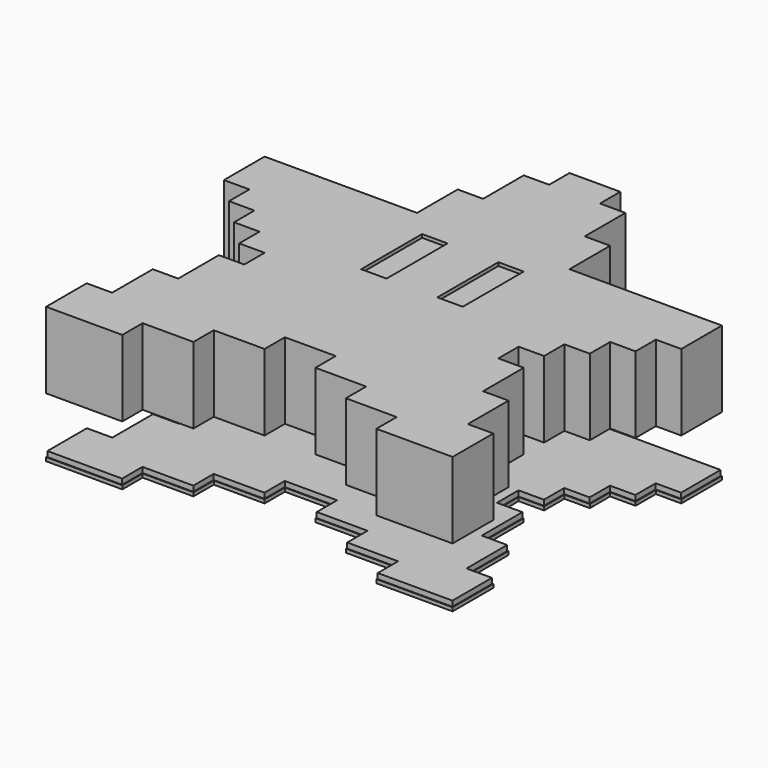
from build123d import *

# Parameters (mm, degrees)
F2_DEPTH  = 25.5
F3_W      = 8.5
F3_H      = 25.5
F4_DEPTH  = 2.55
F6_W      = 8.3
F6_H      = 25.3
F7_DEPTH  = 1.5
F8_SIZE   = 0.7
F8_2_SIZE = 0.7
F11_DEPTH = 3
F12_DEPTH = 1.2


with BuildPart() as f2:
    # F1 (on Top) → F2 (new body)
    with BuildSketch(Plane.XY):
        Polygon((8.5, 85), (0, 85), (-8.5, 85), (-8.5, 76.5), (-17, 76.5), (-17, 59.5), (-25.5, 59.5), (-25.5, 42.5), (-76.5, 42.5), (-76.5, 25.5), (-68, 25.5), (-68, 17), (-59.5, 17), (-59.5, 8.5), (-51, 8.5), (-51, 0), (-42.5, 0), (-42.5, -8.5), (-51, -8.5), (-51, -25.5), (-59.5, -25.5), (-59.5, -42.5), (-68, -42.5), (-68, -59.5), (-42.5, -59.5), (-42.5, -51), (-25.5, -51), (-25.5, -42.5), (-8.5, -42.5), (-8.5, -34), (0, -34), (8.5, -34), (8.5, -42.5), (25.5, -42.5), (25.5, -51), (42.5, -51), (42.5, -59.5), (68, -59.5), (68, -42.5), (59.5, -42.5), (59.5, -25.5), (51, -25.5), (51, -8.5), (42.5, -8.5), (42.5, 0), (51, 0), (51, 8.5), (59.5, 8.5), (59.5, 17), (68, 17), (68, 25.5), (76.5, 25.5), (76.5, 42.5), (25.5, 42.5), (25.5, 59.5), (17, 59.5), (17, 76.5), (8.5, 76.5), align=None)
    extrude(amount=F2_DEPTH)

    # F3 (on face) → F4 (cut)
    with BuildSketch(Plane.XY.offset(25.5)):
        with Locations((-12.75, 21.25)):
            Rectangle(F3_W, F3_H)
        with Locations((12.75, 21.25)):
            Rectangle(F3_W, F3_H)
    extrude(amount=-F4_DEPTH, mode=Mode.SUBTRACT)


with BuildPart() as f7:
    # F6 (on face) → F7 (new body)
    with BuildSketch(Plane.XY.offset(22.95)):
        with Locations((-12.75, 21.25)):
            Rectangle(F6_W, F6_H)
    extrude(amount=F7_DEPTH)

    # F8
    f8_edges = [f7.edges().sort_by_distance(p)[0] for p in [
        (-8.6, 21.25, 22.95),
        (-12.75, 33.9, 22.95),
        (-16.9, 21.25, 22.95),
        (-12.75, 8.6, 22.95),
    ]]
    chamfer(f8_edges, length=F8_SIZE)


with BuildPart() as f7b:
    # F6 (on face) → F7, piece 2 (new body)
    with BuildSketch(Plane.XY.offset(22.95)):
        with Locations((12.75, 21.25)):
            Rectangle(F6_W, F6_H)
    extrude(amount=F7_DEPTH)

    # F8#2
    f8_2_edges = [f7b.edges().sort_by_distance(p)[0] for p in [
        (16.9, 21.25, 22.95),
        (12.75, 33.9, 22.95),
        (8.6, 21.25, 22.95),
        (12.75, 8.6, 22.95),
    ]]
    chamfer(f8_2_edges, length=F8_2_SIZE)


with BuildPart() as f11:
    # F10 (on offset) → F11 (new body)
    with BuildSketch(Plane(origin=(0, 0, -20), x_dir=(1, 0, 0), z_dir=(0, 0, -1))):
        Polygon((-42.75, 50.75), (-42.75, 59.25), (-67.75, 59.25), (-67.75, 42.75), (-59.25, 42.75), (-59.25, 25.75), (-50.75, 25.75), (-50.75, 8.75), (-42.25, 8.75), (-42.25, -0.25), (-50.75, -0.25), (-50.75, -8.75), (-59.25, -8.75), (-59.25, -17.25), (-67.75, -17.25), (-67.75, -25.75), (-76.25, -25.75), (-76.25, -42.25), (-25.25, -42.25), (-25.25, -59.25), (-16.75, -59.25), (-16.75, -76.25), (-8.25, -76.25), (-8.25, -84.75), (8.25, -84.75), (8.25, -76.25), (16.75, -76.25), (16.75, -59.25), (25.25, -59.25), (25.25, -42.25), (76.25, -42.25), (76.25, -25.75), (67.75, -25.75), (67.75, -17.25), (59.25, -17.25), (59.25, -8.75), (50.75, -8.75), (50.75, -0.25), (42.25, -0.25), (42.25, 8.75), (50.75, 8.75), (50.75, 25.75), (59.25, 25.75), (59.25, 42.75), (67.75, 42.75), (67.75, 59.25), (42.75, 59.25), (42.75, 50.75), (25.75, 50.75), (25.75, 42.25), (8.75, 42.25), (8.75, 33.75), (-8.75, 33.75), (-8.75, 42.25), (-25.75, 42.25), (-25.75, 50.75), align=None)
    extrude(amount=-F11_DEPTH)

    # F10 (on offset) → F12 (join)
    with BuildSketch(Plane(origin=(0, 0, -20), x_dir=(1, 0, 0), z_dir=(0, 0, -1))):
        Polygon((-8.5, -76.5), (-8.5, -85), (8.5, -85), (8.5, -76.5), (17, -76.5), (17, -59.5), (25.5, -59.5), (25.5, -42.5), (76.5, -42.5), (76.5, -25.5), (68, -25.5), (68, -17), (59.5, -17), (59.5, -8.5), (51, -8.5), (51, 0), (42.5, 0), (42.5, 8.5), (51, 8.5), (51, 25.5), (59.5, 25.5), (59.5, 42.5), (68, 42.5), (68, 59.5), (42.5, 59.5), (42.5, 51), (25.5, 51), (25.5, 42.5), (8.5, 42.5), (8.5, 34), (-8.5, 34), (-8.5, 42.5), (-25.5, 42.5), (-25.5, 51), (-42.5, 51), (-42.5, 59.5), (-68, 59.5), (-68, 42.5), (-59.5, 42.5), (-59.5, 25.5), (-51, 25.5), (-51, 8.5), (-42.5, 8.5), (-42.5, 0), (-51, 0), (-51, -8.5), (-59.5, -8.5), (-59.5, -17), (-68, -17), (-68, -25.5), (-76.5, -25.5), (-76.5, -42.5), (-25.5, -42.5), (-25.5, -59.5), (-17, -59.5), (-17, -76.5), align=None)
        Polygon((-67.75, 59.25), (-42.75, 59.25), (-42.75, 50.75), (-25.75, 50.75), (-25.75, 42.25), (-8.75, 42.25), (-8.75, 33.75), (8.75, 33.75), (8.75, 42.25), (25.75, 42.25), (25.75, 50.75), (42.75, 50.75), (42.75, 59.25), (67.75, 59.25), (67.75, 42.75), (59.25, 42.75), (59.25, 25.75), (50.75, 25.75), (50.75, 8.75), (42.25, 8.75), (42.25, -0.25), (50.75, -0.25), (50.75, -8.75), (59.25, -8.75), (59.25, -17.25), (67.75, -17.25), (67.75, -25.75), (76.25, -25.75), (76.25, -42.25), (25.25, -42.25), (25.25, -59.25), (16.75, -59.25), (16.75, -76.25), (8.25, -76.25), (8.25, -84.75), (-8.25, -84.75), (-8.25, -76.25), (-16.75, -76.25), (-16.75, -59.25), (-25.25, -59.25), (-25.25, -42.25), (-76.25, -42.25), (-76.25, -25.75), (-67.75, -25.75), (-67.75, -17.25), (-59.25, -17.25), (-59.25, -8.75), (-50.75, -8.75), (-50.75, -0.25), (-42.25, -0.25), (-42.25, 8.75), (-50.75, 8.75), (-50.75, 25.75), (-59.25, 25.75), (-59.25, 42.75), (-67.75, 42.75), align=None, mode=Mode.SUBTRACT)
    extrude(amount=-F12_DEPTH)


solid = Compound([f2.part, f7.part, f7b.part, f11.part])
